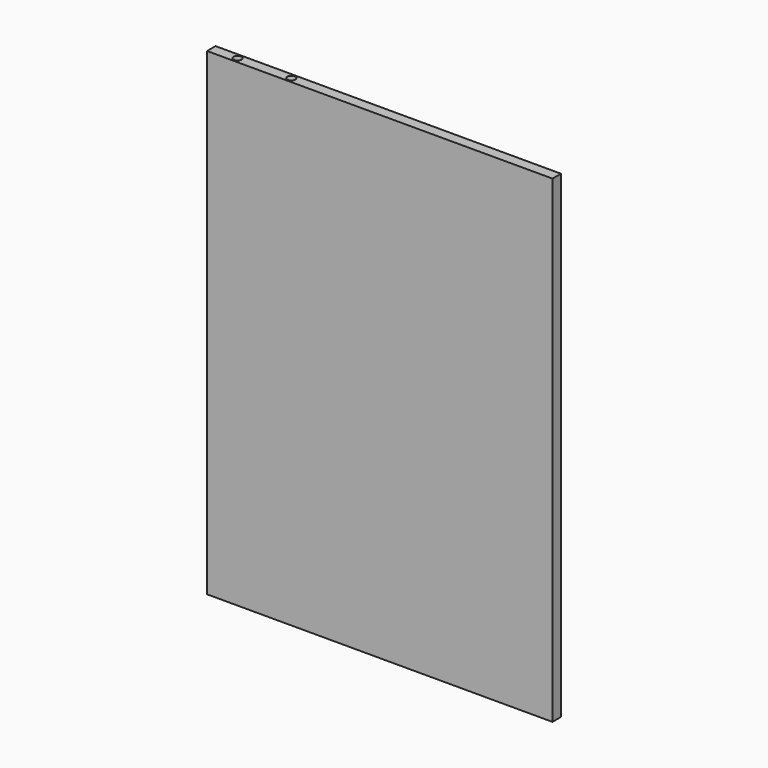
from build123d import *

# Parameters (mm, degrees)
F0_W     = 260
F0_H     = 360
F2_DEPTH = 4
F4_R     = 3


with BuildPart() as f2:
    # F0 (on Front) → F2 (new body, symmetric)
    with BuildSketch(Plane.XZ):
        Rectangle(F0_W, F0_H)
    extrude(amount=F2_DEPTH, both=True)

    # F5: sweep along a path in F1
    with BuildLine(Plane.XZ) as f5_path:
        Line((-110, 200), (-110, 6.5))
        ThreePointArc((-110, 6.5), (-108.0961940777, 1.9038059223), (-103.5, 0))
        Line((-103.5, 0), (-36.5, 0))
        ThreePointArc((-36.5, 0), (-31.9038059223, -1.9038059223), (-30, -6.5))
        Line((-30, -6.5), (-30, -93.5))
        ThreePointArc((-30, -93.5), (-28.0961940777, -98.0961940777), (-23.5, -100))
        Line((-23.5, -100), (23.5, -100))
        ThreePointArc((23.5, -100), (28.0961940777, -98.0961940777), (30, -93.5))
        Line((30, -93.5), (30, -6.5))
        ThreePointArc((30, -6.5), (31.9038059223, -1.9038059223), (36.5, 0))
        Line((36.5, 0), (103.5, 0))
        ThreePointArc((103.5, 0), (108.0961940777, 1.9038059223), (110, 6.5))
        Line((110, 6.5), (110, 153.211519797))
        ThreePointArc((110, 153.211519797), (108.1000134357, 157.8038913403), (103.5108072641, 159.7115108126))
        Line((103.5108072641, 159.7115108126), (-63.5108072641, 159.9892106897))
        ThreePointArc((-63.5108072641, 159.9892106897), (-68.1000134357, 161.896830162), (-70, 166.4892017053))
        Line((-70, 166.4892017053), (-70, 200))
    # F4 (on plane+point) → F5 (sweep, cut)
    with BuildSketch(Plane.XY.offset(200)):
        with Locations((-110.2577596903, 0)):
            Circle(F4_R)
    sweep(path=f5_path.line, mode=Mode.SUBTRACT)


solid = f2.part
